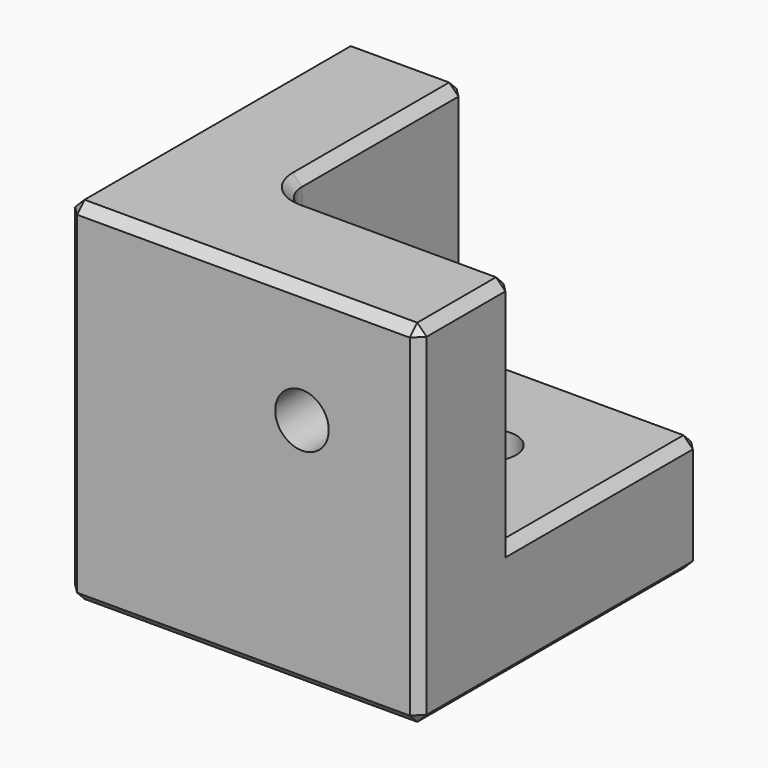
from build123d import *

# Parameters (mm, degrees)
F0_W       = 19.05
F0_H       = 19.05
F1_DEPTH   = 6.35
F3_DEPTH   = 12.7
F7_D       = 2.9
F7_ON_F6_D = 2.9
F7_ON_F5_D = 2.9
F8_R       = 1.5875
F9_SIZE    = 0.508


with BuildPart() as f1:
    # F0 (on Top) → F1 (new body)
    with BuildSketch(Plane.XY):
        with Locations((9.525, 9.525)):
            Rectangle(F0_W, F0_H)
    extrude(amount=F1_DEPTH)

    # F2 (on face) → F3 (join)
    with BuildSketch(Plane.XY.offset(6.35)):
        Polygon((6.35, 19.05), (0, 19.05), (0, 0), (19.05, 0), (19.05, 6.35), (6.35, 6.35), align=None)
    extrude(amount=F3_DEPTH)

    # F7 (through all)
    with Locations(Plane.YZ.offset(6.35)):
        with Locations((12.7, 12.7)):
            Hole(F7_D / 2)

    # F7 on F6 (through all)
    with Locations(Plane(origin=(0, 6.35, 0), x_dir=(-1, 0, 0), z_dir=(0, 1, 0))):
        with Locations((-12.7, 12.7)):
            Hole(F7_ON_F6_D / 2)

    # F7 on F5 (through all)
    with Locations(Plane.XY.offset(6.35)):
        with Locations((12.7, 12.7)):
            Hole(F7_ON_F5_D / 2)

    # F8
    f8_edges = [f1.edges().sort_by_distance(p)[0] for p in [
        (6.35, 6.35, 12.7),
    ]]
    fillet(f8_edges, radius=F8_R)

    # F9
    f9_edges = [f1.edges().sort_by_distance(p)[0] for p in [
        (19.05, 19.05, 3.175),
        (12.7, 19.05, 6.35),
        (6.35, 19.05, 12.7),
        (0, 19.05, 9.525),
        (3.175, 19.05, 19.05),
        (6.35, 13.49375, 19.05),
        (19.05, 6.35, 12.7),
        (19.05, 12.7, 6.35),
        (19.05, 0, 9.525),
        (19.05, 3.175, 19.05),
        (13.49375, 6.35, 19.05),
        (6.814968, 6.814968, 19.05),
        (9.525, 0, 19.05),
        (0, 9.525, 19.05),
        (0, 0, 9.525),
        (19.05, 9.525, 0),
        (9.525, 19.05, 0),
        (0, 9.525, 0),
        (9.525, 0, 0),
    ]]
    chamfer(f9_edges, length=F9_SIZE)


solid = f1.part
